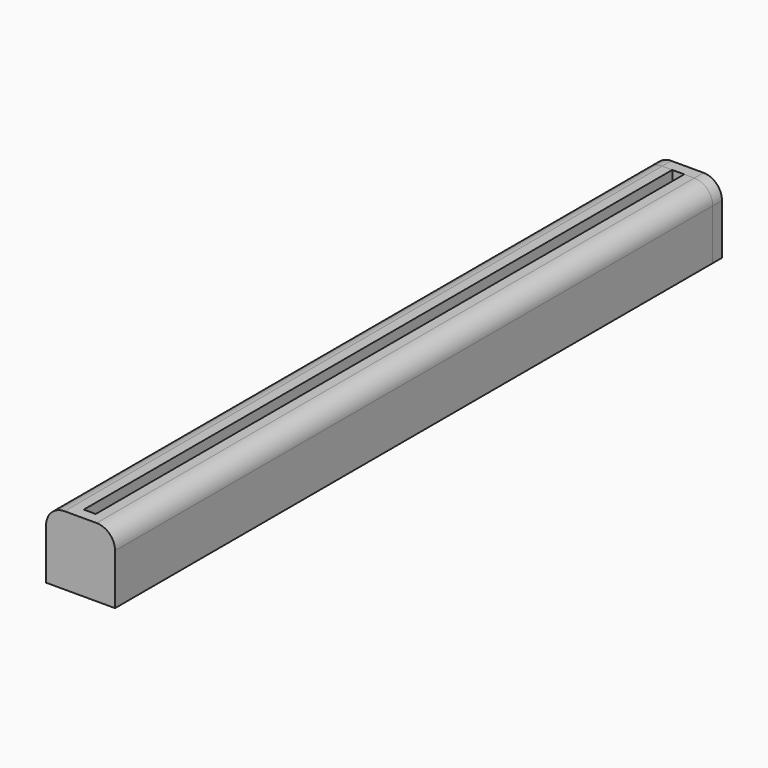
from build123d import *

# Parameters (mm, degrees)
F1_DEPTH = 203.2
F2_W     = 19.05
F2_H     = 19.05
F3_DEPTH = 3.175
F4_R     = 5.08
F5_W     = 3.302
F5_H     = 3.823372
F6_DEPTH = 3.175
F8_DEPTH = 6.35


with BuildPart() as f1:
    # F0 (on Front) → F1 (new body)
    with BuildSketch(Plane.XZ):
        Polygon((-37.347843, 27.060995), (-45.221843, 27.060995), (-45.221843, 8.010995), (-26.171843, 8.010995), (-26.171843, 27.060995), (-34.045843, 27.060995), (-34.045843, 23.237623), (-28.711843, 11.820995), (-42.681843, 11.820995), (-37.347843, 23.237623), align=None)
    extrude(amount=F1_DEPTH)

    # F2 (on face) → F3 (join)
    with BuildSketch(Plane.XZ.offset(203.2)):
        with Locations((-35.696843, 17.535995)):
            Rectangle(F2_W, F2_H)
    extrude(amount=F3_DEPTH)

    # F4
    f4_edges = [f1.edges().sort_by_distance(p)[0] for p in [
        (-45.221843, -103.1875, 27.060995),
        (-26.171843, -103.1875, 27.060995),
    ]]
    fillet(f4_edges, radius=F4_R)


with BuildPart() as f6:
    # F5 (on face) → F6 (new body)
    with BuildSketch(Plane(origin=(0, 0, 0), x_dir=(-1, 0, 0), z_dir=(0, 1, 0))):
        with BuildLine():
            Line((42.681843, 11.820995), (28.711843, 11.820995))
            Line((28.711843, 11.820995), (34.045843, 23.237623))
            Line((34.045843, 23.237623), (34.045843, 27.060995))
            Line((34.045843, 27.060995), (31.251843, 27.060995))
            ThreePointArc((31.251843, 27.060995), (27.65974, 25.573098), (26.171843, 21.980995))
            Line((26.171843, 21.980995), (26.171843, 8.010995))
            Line((26.171843, 8.010995), (45.221843, 8.010995))
            Line((45.221843, 8.010995), (45.221843, 21.980995))
            ThreePointArc((45.221843, 21.980995), (43.733945, 25.573098), (40.141843, 27.060995))
            Line((40.141843, 27.060995), (37.347843, 27.060995))
            Line((37.347843, 27.060995), (37.347843, 23.237623))
            Line((37.347843, 23.237623), (42.681843, 11.820995))
        make_face()
        Polygon((34.045843, 23.237623), (28.711843, 11.820995), (42.681843, 11.820995), (37.347843, 23.237623), align=None)
        with Locations((35.696843, 25.149309)):
            Rectangle(F5_W, F5_H)
    extrude(amount=F6_DEPTH)

    # F7 (on face) → F8 (join)
    with BuildSketch(Plane(origin=(0, 3.175, 0), x_dir=(-1, 0, 0), z_dir=(0, 1, 0))):
        Polygon((37.353876, 19.615583), (41.777253, 12.163895), (42.143156, 12.163895), (37.353876, 22.41463), align=None)
        Polygon((34.03981, 22.41463), (29.25053, 12.163895), (29.616432, 12.163895), (34.03981, 19.615583), align=None)
    extrude(amount=-F8_DEPTH)


solid = Compound([f1.part, f6.part])
